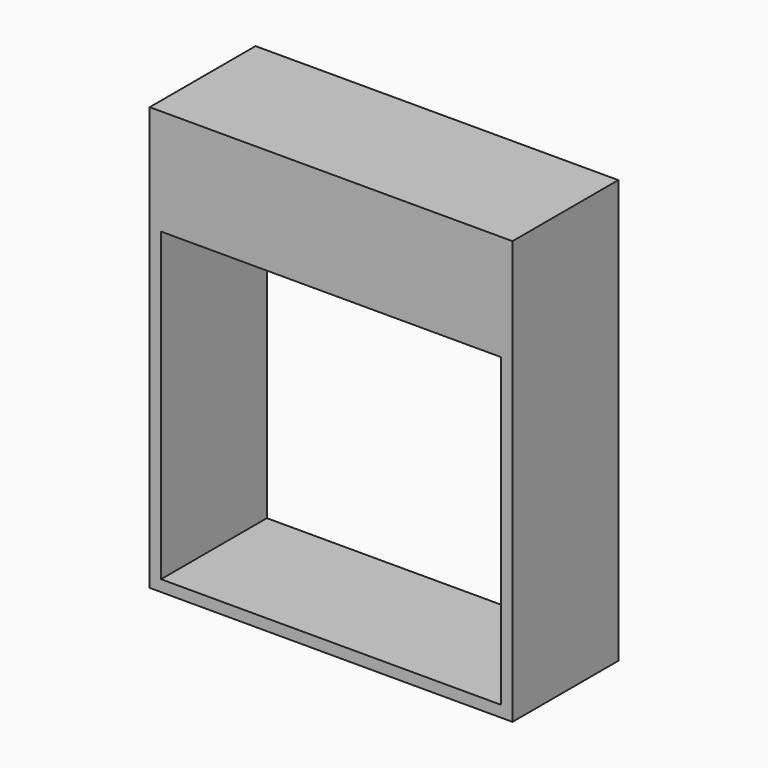
from build123d import *

# Parameters (mm, degrees)
F0_W     = 222.25
F0_H     = 711.2
F1_DEPTH = 609.6
F2_W     = 571.5
F2_H     = 514.35
F3_DEPTH = 285.75
F4_W     = 571.5
F4_H     = 63.5
F5_DEPTH = 158.75


with BuildPart() as f1:
    # F0 (on Right) → F1 (new body)
    with BuildSketch(Plane.YZ):
        with Locations((111.125, 355.6)):
            Rectangle(F0_W, F0_H)
    extrude(amount=-F1_DEPTH)

    # F2 (on face) → F3 (cut)
    with BuildSketch(Plane.XZ):
        with Locations((-304.8, 276.225)):
            Rectangle(F2_W, F2_H)
    extrude(amount=-F3_DEPTH, mode=Mode.SUBTRACT)

    # F4 (on face) → F5 (cut)
    with BuildSketch(Plane(origin=(0, 0, 533.4), x_dir=(1, 0, 0), z_dir=(0, 0, -1))):
        with Locations((-304.8, -254)):
            Rectangle(F4_W, F4_H)
    extrude(amount=-F5_DEPTH, mode=Mode.SUBTRACT)


solid = f1.part
